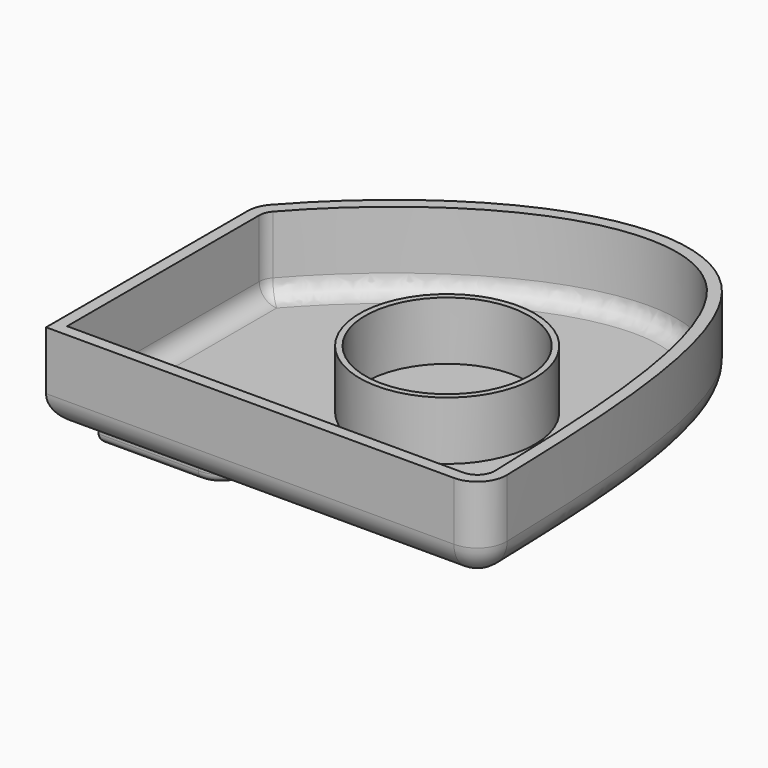
from build123d import *

# Parameters (mm, degrees)
F1_DEPTH = 15
F2_R     = 5
F3_T     = -2
F4_R     = 15
F4_R_2   = 14
F5_DEPTH = 10
F7_DEPTH = 3
F8_R     = 1.5


with BuildPart() as f1:
    # F0 (on Top) → F1 (new body)
    with BuildSketch(Plane.XY):
        with BuildLine():
            Line((-41.6471999139, -33.8184056139), (28.2221867927, -33.8184056139))
            ThreePointArc((28.2221867927, -33.8184056139), (31.8052461555, -32.3057664503), (33.2203551511, -28.683079855))
            add(Edge.make_bspline(
                [(-40.3975011, 12.6290499162), (-30.8858296108, 23.4162518808), (-7.0493723569, 41.208289187), (30.3520223055, 37.2959686123), (32.5478684018, -3.8452218026), (33.2203551511, -28.683079855)],
                knots=[0.0142068322, 0.0142068322, 0.0142068322, 0.0142068322, 0.3330718044, 0.5948309974, 0.9738907257, 0.9738907257, 0.9738907257, 0.9738907257], degree=3))
            ThreePointArc((-40.3975011, 12.6290499162), (-41.324352142, 11.089756291), (-41.6471999139, 9.3222023217))
            Line((-41.6471999139, 9.3222023217), (-41.6471999139, -33.8184056139))
        make_face()
    extrude(amount=F1_DEPTH)

    # F2
    f2_edges = [f1.edges().sort_by_distance(p)[0] for p in [
        (-41.6472, -12.248102, 0),
    ]]
    fillet(f2_edges, radius=F2_R)

    # F3
    f3_openings = [f1.faces().sort_by_distance(p)[0] for p in [
        (-3.826347, -1.622162, 15),
    ]]
    offset(amount=F3_T, openings=f3_openings)

    # F4 (on face) → F5 (join)
    with BuildSketch(Plane.XY.offset(2)):
        Circle(F4_R)
        Circle(F4_R_2, mode=Mode.SUBTRACT)
    extrude(amount=F5_DEPTH)

    # F6 (on face) → F7 (join)
    with BuildSketch(Plane(origin=(0, 0, 0), x_dir=(1, 0, 0), z_dir=(0, 0, -1))):
        with BuildLine():
            Line((-19.5344565624, 28.8184056139), (-36.6471999139, 28.8184056139))
            Line((-36.6471999139, 28.8184056139), (-36.6471999139, 14.9707252116))
            ThreePointArc((-36.6471999139, 14.9707252116), (-33.911473086, 10.5128033861), (-28.6979731131, 10.9331440944))
            Line((-28.6979731131, 10.9331440944), (-16.5852297616, 19.7808244968))
            ThreePointArc((-16.5852297616, 19.7808244968), (-14.7811468952, 25.3695494523), (-19.5344565624, 28.8184056139))
        make_face()
    extrude(amount=F7_DEPTH)

    # F8
    f8_edges = [f1.edges().sort_by_distance(p)[0] for p in [
        (-28.090828, -28.818406, -3),
    ]]
    fillet(f8_edges, radius=F8_R)


solid = f1.part
